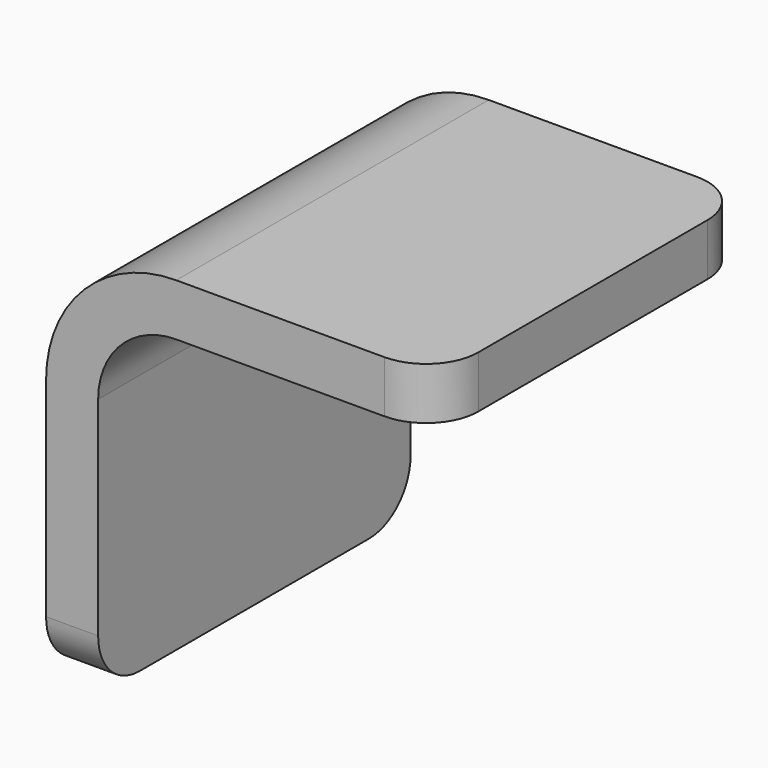
from build123d import *

# Parameters (mm, degrees)
F1_DEPTH = 15
F2_R     = 3
F3_R     = 5
F4_R     = 2


with BuildPart() as f1:
    # F0 (on Front) → F1 (new body)
    with BuildSketch(Plane.XZ):
        Polygon((15, 0), (0, 0), (0, -15), (2, -15), (2, -2), (15, -2), align=None)
    extrude(amount=F1_DEPTH)

    # F2
    f2_edges = [f1.edges().sort_by_distance(p)[0] for p in [
        (2, -7.5, -2),
    ]]
    fillet(f2_edges, radius=F2_R)

    # F3
    f3_edges = [f1.edges().sort_by_distance(p)[0] for p in [
        (0, -7.5, 0),
    ]]
    fillet(f3_edges, radius=F3_R)

    # F4
    f4_edges = [f1.edges().sort_by_distance(p)[0] for p in [
        (15, -15, -1),
        (15, 0, -1),
        (1, -15, -15),
        (1, 0, -15),
    ]]
    fillet(f4_edges, radius=F4_R)


solid = f1.part
